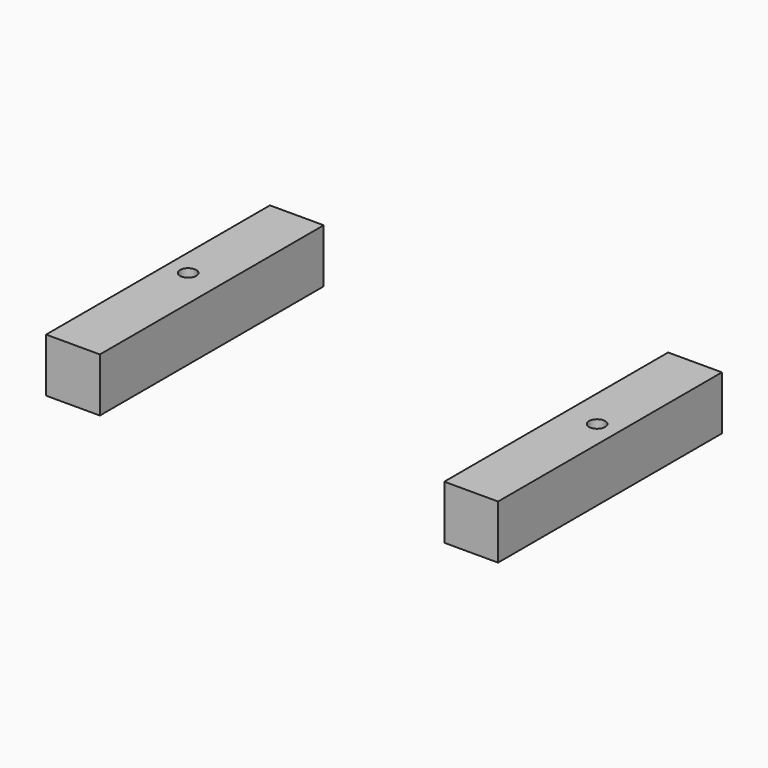
from build123d import *

# Parameters (mm, degrees)
BOX594_W               = 6
BOX594_H               = 6
BOX594_DEPTH           = 64
BOX595_W               = 6
BOX595_H               = 6
BOX595_DEPTH           = 64
CYLINDER2352_R         = 1.5
CYLINDER2352_DEPTH     = 32
CYLINDER2407_R         = 1.5
CYLINDER2407_DEPTH     = 32
CYLINDER2390_R         = 1.5
CYLINDER2390_DEPTH     = 100
CYLINDER2400_R         = 1.5
CYLINDER2400_DEPTH     = 100
CYLINDER2375_R         = 1.5
CYLINDER2375_DEPTH     = 100
CYLINDER2385_R         = 1.5
CYLINDER2385_DEPTH     = 100
BOX589_W               = 10
BOX589_H               = 52
BOX589_DEPTH           = 10
BOX588_W               = 10
BOX588_H               = 52
BOX588_DEPTH           = 10
CUT577_PLACEMENT_ANGLE = 180


with BuildPart() as krychle594:
    # Box594 → Box594 (new body)
    with BuildSketch(Plane(origin=(87, -3, -93), x_dir=(1, 0, 0), z_dir=(0, 0, 1))):
        with Locations((3, 3)):
            Rectangle(BOX594_W, BOX594_H)
    extrude(amount=BOX594_DEPTH)


with BuildPart() as compound1016:
    # Box595 → Box595 (new body)
    with BuildSketch(Plane(origin=(11, -3, -93), x_dir=(1, 0, 0), z_dir=(0, 0, 1))):
        with Locations((3, 3)):
            Rectangle(BOX595_W, BOX595_H)
    extrude(amount=BOX595_DEPTH)

    # Compound1016: union Krychle594
    add(krychle594.part)


with BuildPart() as compound1016_1:
    # Compound1016 placement: moved
    add(compound1016.part.moved(Location((-52, 0, 36))))


with BuildPart() as obj1:
    # Cylinder2352 → Cylinder2352 (new body)
    with BuildSketch(Plane(origin=(78, 41, -42), x_dir=(1, 0, 0), z_dir=(0, 0, 1))):
        Circle(CYLINDER2352_R)
    extrude(amount=CYLINDER2352_DEPTH)


with BuildPart() as compound1009:
    # Cylinder2407 → Cylinder2407 (new body)
    with BuildSketch(Plane(origin=(26, 41, -42), x_dir=(1, 0, 0), z_dir=(0, 0, 1))):
        Circle(CYLINDER2407_R)
    extrude(amount=CYLINDER2407_DEPTH)

    # Compound1009: union obj1
    add(obj1.part)


with BuildPart() as compound1009_1:
    # Compound1009 placement: moved
    add(compound1009.part.moved(Location((-52, 0, 36))))


with BuildPart() as obj2:
    # Cylinder2390 → Cylinder2390 (new body)
    with BuildSketch(Plane(origin=(14, 0, -60), x_dir=(1, 0, 0), z_dir=(0, 0, 1))):
        Circle(CYLINDER2390_R)
    extrude(amount=CYLINDER2390_DEPTH)


with BuildPart() as compound1010:
    # Cylinder2400 → Cylinder2400 (new body)
    with BuildSketch(Plane(origin=(90, 0, -60), x_dir=(1, 0, 0), z_dir=(0, 0, 1))):
        Circle(CYLINDER2400_R)
    extrude(amount=CYLINDER2400_DEPTH)

    # Compound1012: union obj2
    add(obj2.part)


with BuildPart() as compound1010_1:
    # Compound1012 placement: moved
    add(compound1010.part.moved(Location((-52, 0, 0))))

    # Compound1010: union Compound1009
    add(compound1009_1.part)


with BuildPart() as obj3:
    # Cylinder2375 → Cylinder2375 (new body)
    with BuildSketch(Plane(origin=(39, -21, 0), x_dir=(1, 0, 0), z_dir=(0, 0, 1))):
        Circle(CYLINDER2375_R)
    extrude(amount=CYLINDER2375_DEPTH)


with BuildPart() as compound1014:
    # Cylinder2385 → Cylinder2385 (new body)
    with BuildSketch(Plane(origin=(-39, -21, 0), x_dir=(1, 0, 0), z_dir=(0, 0, 1))):
        Circle(CYLINDER2385_R)
    extrude(amount=CYLINDER2385_DEPTH)

    # Compound1014: union obj3
    add(obj3.part)


with BuildPart() as compound1014_1:
    # Compound1014 placement: moved
    add(compound1014.part.moved(Location((0, -6, 0))))


with BuildPart() as krychle589:
    # Box589 → Box589 (new body)
    with BuildSketch(Plane(origin=(-42, -24, 0), x_dir=(1, 0, 0), z_dir=(0, 0, 1))):
        with Locations((5, 26)):
            Rectangle(BOX589_W, BOX589_H)
    extrude(amount=BOX589_DEPTH)


with BuildPart() as cut577:
    # Box588 → Box588 (new body)
    with BuildSketch(Plane(origin=(32, -24, 0), x_dir=(1, 0, 0), z_dir=(0, 0, 1))):
        with Locations((5, 26)):
            Rectangle(BOX588_W, BOX588_H)
    extrude(amount=BOX588_DEPTH)

    # Compound993: union Krychle589
    add(krychle589.part)

    # Cut581: cut Compound1014
    add(compound1014_1.part, mode=Mode.SUBTRACT)

    # Cut589: cut Compound1010
    add(compound1010_1.part, mode=Mode.SUBTRACT)

    # Cut577: cut Compound1016
    add(compound1016_1.part, mode=Mode.SUBTRACT)


with BuildPart() as cut577_1:
    # Cut577 placement: moved
    add(cut577.part.moved(Location((52, 0, -36))).rotate(Axis((52, 0, -36), (0, 0, 1)), CUT577_PLACEMENT_ANGLE))


solid = cut577_1.part
